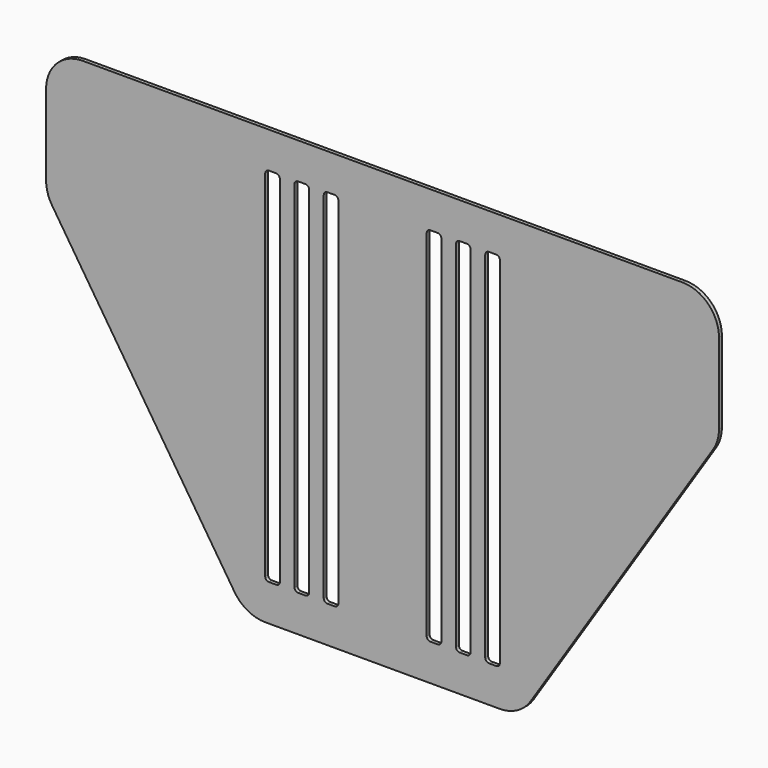
from build123d import *

# Parameters (mm, degrees)
F1_DEPTH = 1
F3_DEPTH = 1.001


with BuildPart() as f1:
    # F0 (on Front) → F1 (new body)
    with BuildSketch(Plane.XZ):
        with BuildLine():
            Line((-32.070443, -57.506203), (0, -57.506203))
            Line((0, -57.506203), (32.070443, -57.506203))
            ThreePointArc((32.070443, -57.506203), (36.842031, -56.294374), (40.457149, -52.952594))
            Line((40.457149, -52.952594), (90.350609, 23.876598))
            ThreePointArc((90.350609, 23.876598), (91.552101, 26.482835), (91.963904, 29.322989))
            Line((91.963904, 29.322989), (91.963904, 51.360854))
            ThreePointArc((91.963904, 51.360854), (89.034971, 58.431921), (81.963904, 61.360854))
            Line((81.963904, 61.360854), (-81.963904, 61.360854))
            ThreePointArc((-81.963904, 61.360854), (-89.034971, 58.431921), (-91.963904, 51.360854))
            Line((-91.963904, 51.360854), (-91.963904, 29.322989))
            ThreePointArc((-91.963904, 29.322989), (-91.552101, 26.482835), (-90.350609, 23.876598))
            Line((-90.350609, 23.876598), (-40.457149, -52.952594))
            ThreePointArc((-40.457149, -52.952594), (-36.842031, -56.294374), (-32.070443, -57.506203))
        make_face()
    extrude(amount=F1_DEPTH)

    # F2 (on face) → F3 (cut, through all)
    with BuildSketch(Plane.XZ.offset(1)):
        with BuildLine():
            ThreePointArc((-32.070443, -46.506203), (-31.77755, -47.21331), (-31.070443, -47.506203))
            Line((-31.070443, -47.506203), (-29.070443, -47.506203))
            ThreePointArc((-29.070443, -47.506203), (-28.363336, -47.21331), (-28.070443, -46.506203))
            Line((-28.070443, -46.506203), (-28.070443, 50.493797))
            ThreePointArc((-28.070443, 50.493797), (-28.363336, 51.200904), (-29.070443, 51.493797))
            Line((-29.070443, 51.493797), (-31.070443, 51.493797))
            ThreePointArc((-31.070443, 51.493797), (-31.77755, 51.200904), (-32.070443, 50.493797))
            Line((-32.070443, 50.493797), (-32.070443, -46.506203))
        make_face()
        with BuildLine():
            ThreePointArc((-24.070443, -46.506203), (-23.77755, -47.21331), (-23.070443, -47.506203))
            Line((-23.070443, -47.506203), (-21.070443, -47.506203))
            ThreePointArc((-21.070443, -47.506203), (-20.363336, -47.21331), (-20.070443, -46.506203))
            Line((-20.070443, -46.506203), (-20.070443, 50.493797))
            ThreePointArc((-20.070443, 50.493797), (-20.363336, 51.200904), (-21.070443, 51.493797))
            Line((-21.070443, 51.493797), (-23.070443, 51.493797))
            ThreePointArc((-23.070443, 51.493797), (-23.77755, 51.200904), (-24.070443, 50.493797))
            Line((-24.070443, 50.493797), (-24.070443, -46.506203))
        make_face()
        with BuildLine():
            ThreePointArc((-16.070443, -46.506203), (-15.77755, -47.21331), (-15.070443, -47.506203))
            Line((-15.070443, -47.506203), (-13.070443, -47.506203))
            ThreePointArc((-13.070443, -47.506203), (-12.363336, -47.21331), (-12.070443, -46.506203))
            Line((-12.070443, -46.506203), (-12.070443, 50.493797))
            ThreePointArc((-12.070443, 50.493797), (-12.363336, 51.200904), (-13.070443, 51.493797))
            Line((-13.070443, 51.493797), (-15.070443, 51.493797))
            ThreePointArc((-15.070443, 51.493797), (-15.77755, 51.200904), (-16.070443, 50.493797))
            Line((-16.070443, 50.493797), (-16.070443, -46.506203))
        make_face()
        with BuildLine():
            ThreePointArc((15.070443, -47.506203), (15.77755, -47.21331), (16.070443, -46.506203))
            Line((16.070443, -46.506203), (16.070443, 50.493797))
            ThreePointArc((16.070443, 50.493797), (15.77755, 51.200904), (15.070443, 51.493797))
            Line((15.070443, 51.493797), (13.070443, 51.493797))
            ThreePointArc((13.070443, 51.493797), (12.363336, 51.200904), (12.070443, 50.493797))
            Line((12.070443, 50.493797), (12.070443, -46.506203))
            ThreePointArc((12.070443, -46.506203), (12.363336, -47.21331), (13.070443, -47.506203))
            Line((13.070443, -47.506203), (15.070443, -47.506203))
        make_face()
        with BuildLine():
            ThreePointArc((20.070443, -46.506203), (20.363336, -47.21331), (21.070443, -47.506203))
            Line((21.070443, -47.506203), (23.070443, -47.506203))
            ThreePointArc((23.070443, -47.506203), (23.77755, -47.21331), (24.070443, -46.506203))
            Line((24.070443, -46.506203), (24.070443, 50.493797))
            ThreePointArc((24.070443, 50.493797), (23.77755, 51.200904), (23.070443, 51.493797))
            Line((23.070443, 51.493797), (21.070443, 51.493797))
            ThreePointArc((21.070443, 51.493797), (20.363336, 51.200904), (20.070443, 50.493797))
            Line((20.070443, 50.493797), (20.070443, -46.506203))
        make_face()
        with BuildLine():
            ThreePointArc((28.070443, -46.506203), (28.363336, -47.21331), (29.070443, -47.506203))
            Line((29.070443, -47.506203), (31.070443, -47.506203))
            ThreePointArc((31.070443, -47.506203), (31.77755, -47.21331), (32.070443, -46.506203))
            Line((32.070443, -46.506203), (32.070443, 50.493797))
            ThreePointArc((32.070443, 50.493797), (31.77755, 51.200904), (31.070443, 51.493797))
            Line((31.070443, 51.493797), (29.070443, 51.493797))
            ThreePointArc((29.070443, 51.493797), (28.363336, 51.200904), (28.070443, 50.493797))
            Line((28.070443, 50.493797), (28.070443, -46.506203))
        make_face()
    extrude(amount=-F3_DEPTH, mode=Mode.SUBTRACT)


solid = f1.part
